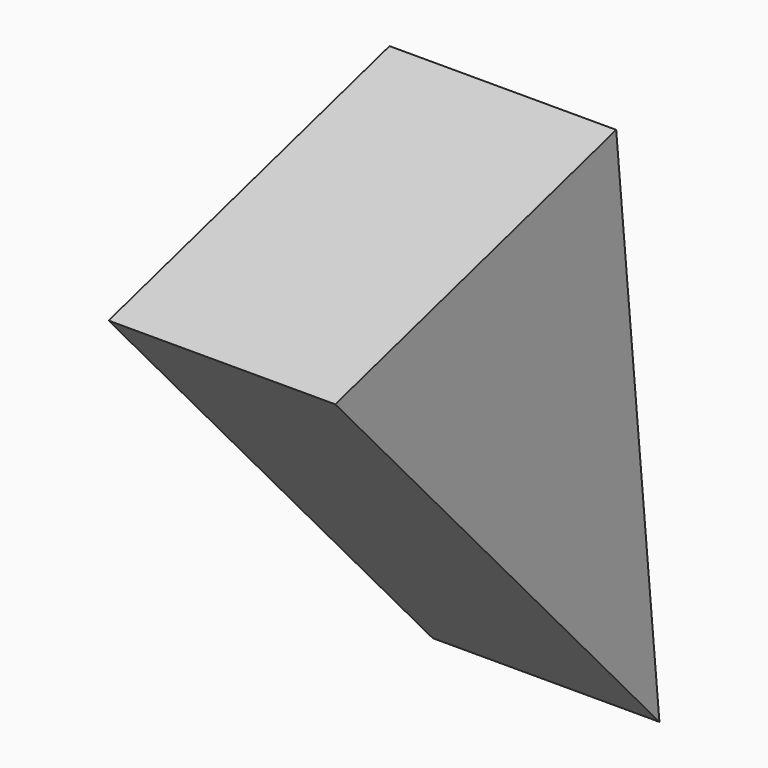
from build123d import *

# Parameters (mm, degrees)
F1_DEPTH = 25.4


with BuildPart() as f1:
    # F0 (on Right) → F1 (new body)
    with BuildSketch(Plane.YZ):
        Polygon((-6.053156, 60.865458), (-45.398727, 49.784038), (0, 0), align=None)
    extrude(amount=-F1_DEPTH)


solid = f1.part
